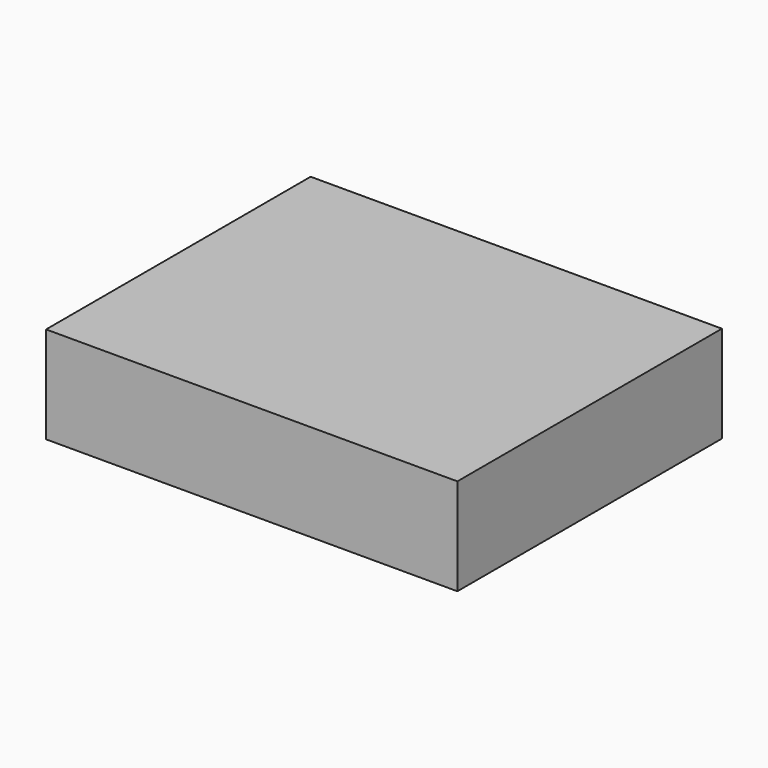
from build123d import *

# Parameters (mm, degrees)
SKETCH_W        = 76.5
SKETCH_H        = 61.5
PAD_DEPTH       = 18
SKETCH001_W     = 75
SKETCH001_H     = 60
POCKET_DEPTH    = 15
SKETCH003_R     = 3.33
POCKET001_DEPTH = 5


with BuildPart() as part:
    # Sketch → Pad (new body)
    with BuildSketch(Plane.XY):
        Rectangle(SKETCH_W, SKETCH_H)
    extrude(amount=PAD_DEPTH)

    # Sketch001 (on Face5 of Pad) → Pocket (cut)
    with BuildSketch(Plane(origin=(0, 0, 0), x_dir=(1, 0, 0), z_dir=(0, 0, -1))):
        Rectangle(SKETCH001_W, SKETCH001_H)
    extrude(amount=-POCKET_DEPTH, mode=Mode.SUBTRACT)

    # Sketch003 (on Face1 of Pocket) → Pocket001 (cut)
    with BuildSketch(Plane(origin=(0, 30.75, 0), x_dir=(-1, 0, 0), z_dir=(0, 1, 0))):
        with Locations((31.1968, 11.26101)):
            Circle(SKETCH003_R)
    extrude(amount=-POCKET001_DEPTH, mode=Mode.SUBTRACT)


solid = part.part
